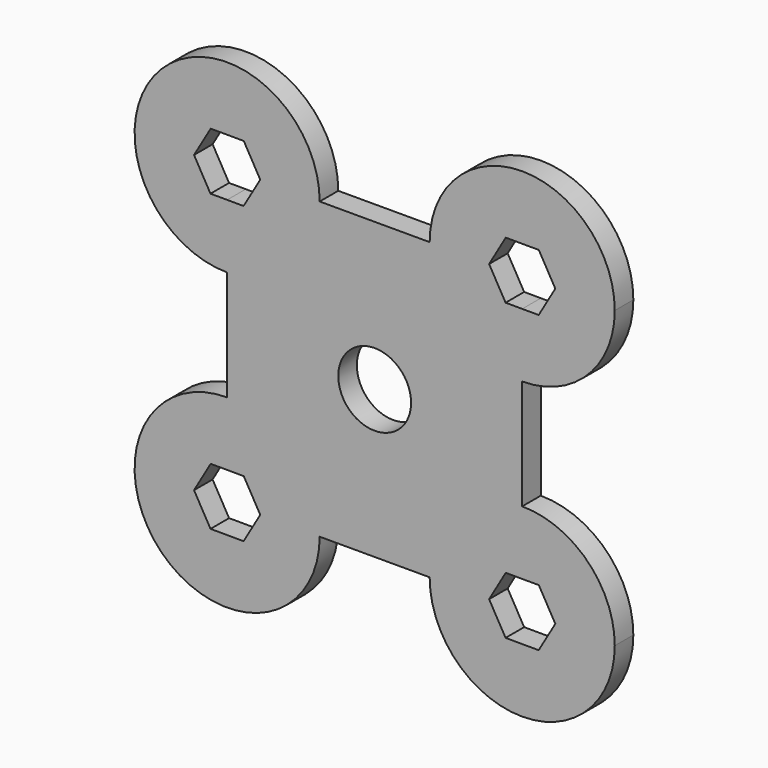
from build123d import *

# Parameters (mm, degrees)
F0_R     = 10.9728
F1_DEPTH = 6.9977


with BuildPart() as f1:
    # F0 (on Front) → F1 (new body)
    with BuildSketch(Plane.XZ):
        with BuildLine():
            Line((39.4410132672, 35.8273140354), (34.4932856489, 44.45))
            Line((34.4932856489, 44.45), (16.56621992, 44.45))
            ThreePointArc((16.56621992, 44.45), (24.7331900203, 24.7331900203), (44.45, 16.56621992))
            Line((44.45, 16.56621992), (44.45, 35.8139693522))
            Line((44.45, 35.8139693522), (39.4410132672, 35.8273140354))
        make_face()
        with BuildLine():
            Line((16.56621992, 44.45), (34.4932856489, 44.45))
            Line((34.4932856489, 44.45), (34.4780415394, 44.4765667755))
            Line((34.4780415394, 44.4765667755), (39.4870282722, 53.0992527401))
            Line((39.4870282722, 53.0992527401), (49.4589867328, 53.0726859646))
            Line((49.4589867328, 53.0726859646), (54.4219584606, 44.4234332245))
            Line((54.4219584606, 44.4234332245), (49.4129717278, 35.8007472599))
            Line((49.4129717278, 35.8007472599), (44.45, 35.8139693522))
            Line((44.45, 35.8139693522), (44.45, 16.56621992))
            ThreePointArc((44.45, 16.56621992), (64.1668099797, 24.7331900203), (72.33378008, 44.45))
            ThreePointArc((72.33378008, 44.45), (44.45, 72.33378008), (16.56621992, 44.45))
        make_face()
        with BuildLine():
            ThreePointArc((44.45, 16.56621992), (24.7331900203, 24.7331900203), (16.56621992, 44.45))
            Line((16.56621992, 44.45), (-16.56621992, 44.45))
            ThreePointArc((-16.56621992, 44.45), (-24.7331900203, 24.7331900203), (-44.45, 16.56621992))
            Line((-44.45, 16.56621992), (-44.45, -16.56621992))
            ThreePointArc((-44.45, -16.56621992), (-24.7331900203, -24.7331900203), (-16.56621992, -44.45))
            Line((-16.56621992, -44.45), (16.56621992, -44.45))
            ThreePointArc((16.56621992, -44.45), (24.7331900203, -24.7331900203), (44.45, -16.56621992))
            Line((44.45, -16.56621992), (44.45, 16.56621992))
        make_face()
        Circle(F0_R, mode=Mode.SUBTRACT)
        with BuildLine():
            ThreePointArc((-44.45, 16.56621992), (-24.7331900203, 24.7331900203), (-16.56621992, 44.45))
            Line((-16.56621992, 44.45), (-34.4993061746, 44.45))
            Line((-34.4993061746, 44.45), (-34.4780751317, 44.4129088263))
            Line((-34.4780751317, 44.4129088263), (-39.4961594646, 35.7955141526))
            Line((-39.4961594646, 35.7955141526), (-44.45, 35.8139402601))
            Line((-44.45, 35.8139402601), (-44.45, 16.56621992))
        make_face()
        with BuildLine():
            Line((-34.4993061746, 44.45), (-16.56621992, 44.45))
            ThreePointArc((-16.56621992, 44.45), (-64.1668099797, 64.1668099797), (-44.45, 16.56621992))
            Line((-44.45, 16.56621992), (-44.45, 35.8139402601))
            Line((-44.45, 35.8139402601), (-49.4680843328, 35.8326053263))
            Line((-49.4680843328, 35.8326053263), (-54.4219248683, 44.4870911737))
            Line((-54.4219248683, 44.4870911737), (-49.4038405354, 53.1044858474))
            Line((-49.4038405354, 53.1044858474), (-39.4319156672, 53.0673946737))
            Line((-39.4319156672, 53.0673946737), (-34.4993061746, 44.45))
        make_face()
        with BuildLine():
            ThreePointArc((72.33378008, -44.45), (64.1668099797, -24.7331900203), (44.45, -16.56621992))
            Line((44.45, -16.56621992), (44.45, -35.8139693522))
            Line((44.45, -35.8139693522), (49.4589867328, -35.8273140354))
            Line((49.4589867328, -35.8273140354), (54.4219584606, -44.4765667755))
            Line((54.4219584606, -44.4765667755), (49.4129717278, -53.0992527401))
            Line((49.4129717278, -53.0992527401), (39.4410132672, -53.0726859646))
            Line((39.4410132672, -53.0726859646), (34.4932856489, -44.45))
            Line((34.4932856489, -44.45), (16.56621992, -44.45))
            ThreePointArc((16.56621992, -44.45), (44.45, -72.33378008), (72.33378008, -44.45))
        make_face()
        with BuildLine():
            Line((44.45, -35.8139693522), (44.45, -16.56621992))
            ThreePointArc((44.45, -16.56621992), (24.7331900203, -24.7331900203), (16.56621992, -44.45))
            Line((16.56621992, -44.45), (34.4932856489, -44.45))
            Line((34.4932856489, -44.45), (34.4780415394, -44.4234332245))
            Line((34.4780415394, -44.4234332245), (39.4870282722, -35.8007472599))
            Line((39.4870282722, -35.8007472599), (44.45, -35.8139693522))
        make_face()
        with BuildLine():
            ThreePointArc((-16.56621992, -44.45), (-24.7331900203, -24.7331900203), (-44.45, -16.56621992))
            Line((-44.45, -16.56621992), (-44.45, -35.8139693522))
            Line((-44.45, -35.8139693522), (-39.4410132672, -35.8273140354))
            Line((-39.4410132672, -35.8273140354), (-34.4932856489, -44.45))
            Line((-34.4932856489, -44.45), (-16.56621992, -44.45))
        make_face()
        with BuildLine():
            Line((-44.45, -35.8139693522), (-44.45, -16.56621992))
            ThreePointArc((-44.45, -16.56621992), (-64.1668099797, -64.1668099797), (-16.56621992, -44.45))
            Line((-16.56621992, -44.45), (-34.4932856489, -44.45))
            Line((-34.4932856489, -44.45), (-34.4780415394, -44.4765667755))
            Line((-34.4780415394, -44.4765667755), (-39.4870282722, -53.0992527401))
            Line((-39.4870282722, -53.0992527401), (-49.4589867328, -53.0726859646))
            Line((-49.4589867328, -53.0726859646), (-54.4219584606, -44.4234332245))
            Line((-54.4219584606, -44.4234332245), (-49.4129717278, -35.8007472599))
            Line((-49.4129717278, -35.8007472599), (-44.45, -35.8139693522))
        make_face()
    extrude(amount=F1_DEPTH)


solid = f1.part
